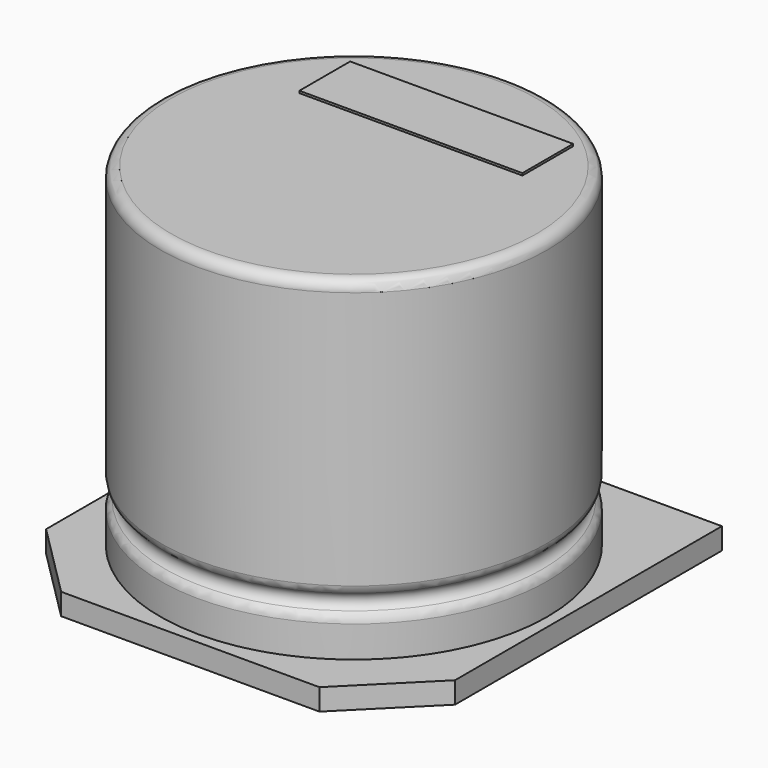
from build123d import *

# Parameters (mm, degrees)
F2_R     = 0.5
F3_W     = 19
F3_H     = 19
F4_DEPTH = 1
F5_SIZE  = 3.5
F6_W     = 10.360902
F6_H     = 2.946893
F7_DEPTH = 0.1


with BuildPart() as f1:
    # F0 (on Front) → F1 (revolve)
    with BuildSketch(Plane.XZ):
        with BuildLine():
            Line((0, 16.5), (0, 0))
            Line((0, 0), (9, 0))
            Line((9, 0), (9, 2.802913))
            ThreePointArc((9, 2.802913), (8.580664, 3.233504), (9, 3.664096))
            Line((9, 3.664096), (9, 16.5))
            Line((9, 16.5), (0, 16.5))
        make_face()
    revolve(axis=Axis((0, 0, 8.25), (0, 0, 1)))

    # F2
    f2_edges = [f1.edges().sort_by_distance(p)[0] for p in [
        (-9, 0, 16.5),
        (-9, 0, 3.664096),
        (-9, 0, 2.802913),
    ]]
    fillet(f2_edges, radius=F2_R)


with BuildPart() as f4:
    # F3 (on face) → F4 (new body)
    with BuildSketch(Plane(origin=(0, 0, 0), x_dir=(1, 0, 0), z_dir=(0, 0, -1))):
        Rectangle(F3_W, F3_H)
    extrude(amount=-F4_DEPTH)

    # F5
    f5_edges = [f4.edges().sort_by_distance(p)[0] for p in [
        (-9.5, -9.5, 0.5),
        (9.5, -9.5, 0.5),
    ]]
    chamfer(f5_edges, length=F5_SIZE)


with BuildPart() as f7:
    # F6 (on face) → F7 (new body)
    with BuildSketch(Plane.XY.offset(16.5)):
        with Locations((0.05847, 4.71269)):
            Rectangle(F6_W, F6_H)
    extrude(amount=F7_DEPTH)


solid = Compound([f1.part, f4.part, f7.part])
